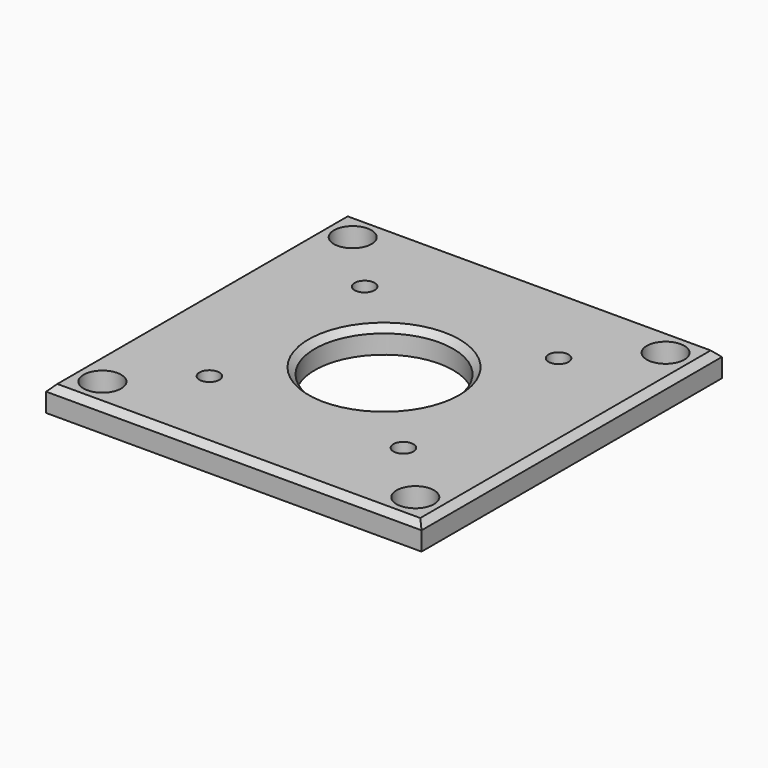
from build123d import *

# Parameters (mm, degrees)
F0_W     = 60
F0_H     = 60
F0_R     = 11.05
F1_DEPTH = 4
F2_D     = 3.2
F3_D     = 6
F4_SIZE  = 1


with BuildPart() as f1:
    # F0 (on Top) → F1 (new body)
    with BuildSketch(Plane.XY):
        Rectangle(F0_W, F0_H)
        Circle(F0_R, mode=Mode.SUBTRACT)
    extrude(amount=F1_DEPTH)

    # F2 (through all)
    with Locations(Plane(origin=(0, 0, 0), x_dir=(1, 0, 0), z_dir=(0, 0, -1))):
        with Locations((15.5, 15.5), (15.5, -15.5), (-15.5, -15.5), (-15.5, 15.5)):
            Hole(F2_D / 2)

    # F3 (through all)
    with Locations(Plane(origin=(0, 0, 0), x_dir=(1, 0, 0), z_dir=(0, 0, -1))):
        with Locations((-25, -25), (25, -25), (25, 25), (-25, 25)):
            Hole(F3_D / 2)

    # F4
    f4_edges = [f1.edges().sort_by_distance(p)[0] for p in [
        (-11.05, 0, 4),
        (0, -30, 4),
        (-30, 0, 4),
        (0, 30, 4),
        (30, 0, 4),
    ]]
    chamfer(f4_edges, length=F4_SIZE)


solid = f1.part
